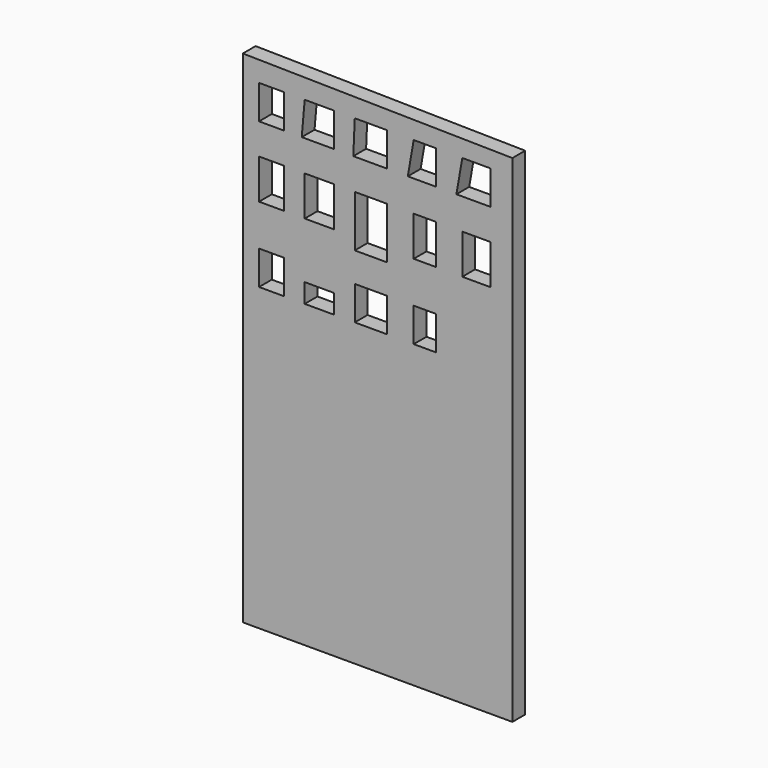
from build123d import *

# Parameters (mm, degrees)
F0_W     = 3.977105
F0_H     = 5.380789
F0_W_2   = 4.678948
F0_H_2   = 3.041315
F0_W_3   = 5.146842
F0_H_3   = 6.31658
F0_H_4   = 5.380787
F0_H_5   = 8.188158
F0_W_4   = 3.509209
F0_W_5   = 4.444998
F0_R     = 4.004533
F1_DEPTH = 2.54


with BuildPart() as f1:
    # F0 (on Front) → F1 (new body)
    with BuildSketch(Plane.XZ):
        Polygon((19.885525, -32.050792), (19.885525, 35.326052), (-22.926843, 36.027897), (-22.926843, -31.348947), align=None)
        with Locations((-18.364869, 6.901447)):
            Rectangle(F0_W, F0_H, mode=Mode.SUBTRACT)
        with Locations((-10.761579, 5.731711)):
            Rectangle(F0_W_2, F0_H_2, mode=Mode.SUBTRACT)
        with Locations((-2.573421, 6.901447)):
            Rectangle(F0_W_3, F0_H, mode=Mode.SUBTRACT)
        with Locations((-18.364869, 19.300658)):
            Rectangle(F0_W, F0_H_3, mode=Mode.SUBTRACT)
        with Locations((-18.364869, 30.062235)):
            Rectangle(F0_W, F0_H_4, mode=Mode.SUBTRACT)
        with Locations((-10.761579, 19.300658)):
            Rectangle(F0_W_2, F0_H_3, mode=Mode.SUBTRACT)
        with Locations((-2.573421, 18.364869)):
            Rectangle(F0_W_3, F0_H_5, mode=Mode.SUBTRACT)
        Polygon((-13.568947, 27.371842), (-13.101053, 32.752629), (-8.422105, 32.752629), (-8.422105, 27.371842), align=None, mode=Mode.SUBTRACT)
        Polygon((-5.38079, 27.371842), (-5.146842, 32.752629), (0, 32.752629), (0, 27.371842), align=None, mode=Mode.SUBTRACT)
        with Locations((5.965658, 6.901447)):
            Rectangle(F0_W_4, F0_H, mode=Mode.SUBTRACT)
        with Locations((5.965658, 19.300658)):
            Rectangle(F0_W_4, F0_H_3, mode=Mode.SUBTRACT)
        Polygon((3.275263, 27.371842), (4.211054, 32.752629), (7.720263, 32.752629), (7.720263, 27.371842), align=None, mode=Mode.SUBTRACT)
        with Locations((14.153816, 19.300658)):
            Rectangle(F0_W_5, F0_H_3, mode=Mode.SUBTRACT)
        Polygon((10.995527, 27.371842), (11.931317, 32.752629), (16.376315, 32.752629), (16.376315, 27.371842), align=None, mode=Mode.SUBTRACT)
        Polygon((19.885525, -43.514211), (19.885525, -32.050792), (-22.926843, -31.348947), (-22.926843, -43.514211), align=None)
        with Locations((0, -37.665527)):
            Circle(F0_R, mode=Mode.SUBTRACT)
        with Locations((0, -37.665527)):
            Circle(F0_R)
    extrude(amount=F1_DEPTH)


solid = f1.part
